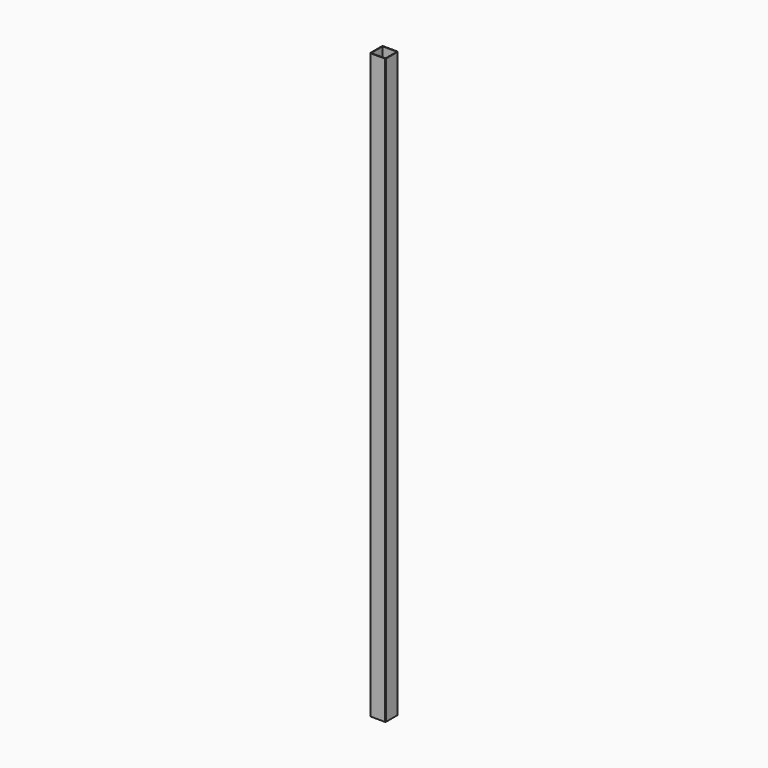
from build123d import *

# Parameters (mm, degrees)
F1_DEPTH = 1500
F3_DEPTH = 25


with BuildPart() as f1:
    # F0 (on Top) → F1 (new body)
    with BuildSketch(Plane.XY):
        with BuildLine():
            ThreePointArc((20, 18), (19.414214, 19.414214), (18, 20))
            Line((18, 20), (-18, 20))
            ThreePointArc((-18, 20), (-19.414214, 19.414214), (-20, 18))
            Line((-20, 18), (-20, -18))
            ThreePointArc((-20, -18), (-19.414214, -19.414214), (-18, -20))
            Line((-18, -20), (18, -20))
            ThreePointArc((18, -20), (19.414214, -19.414214), (20, -18))
            Line((20, -18), (20, 18))
        make_face()
        with BuildLine():
            Line((-18.5, 18.5), (17.5, 18.5))
            ThreePointArc((17.5, 18.5), (18.207107, 18.207107), (18.5, 17.5))
            Line((18.5, 17.5), (18.5, -17.5))
            ThreePointArc((18.5, -17.5), (18.207107, -18.207107), (17.5, -18.5))
            Line((17.5, -18.5), (-17.5, -18.5))
            ThreePointArc((-17.5, -18.5), (-18.207107, -18.207107), (-18.5, -17.5))
            Line((-18.5, -17.5), (-18.5, 18.5))
        make_face(mode=Mode.SUBTRACT)
    extrude(amount=F1_DEPTH)

    # F2 (on face) → F3 (cut)
    with BuildSketch(Plane(origin=(0, 20, 0), x_dir=(-1, 0, 0), z_dir=(0, 1, 0))):
        with BuildLine():
            Line((-13, 370), (13, 370))
            ThreePointArc((13, 370), (14.414214, 370.585786), (15, 372))
            Line((15, 372), (15, 428))
            ThreePointArc((15, 428), (14.414214, 429.414214), (13, 430))
            Line((13, 430), (-13, 430))
            ThreePointArc((-13, 430), (-14.414214, 429.414214), (-15, 428))
            Line((-15, 428), (-15, 372))
            ThreePointArc((-15, 372), (-14.414214, 370.585786), (-13, 370))
        make_face()
    extrude(amount=-F3_DEPTH, mode=Mode.SUBTRACT)


solid = f1.part
